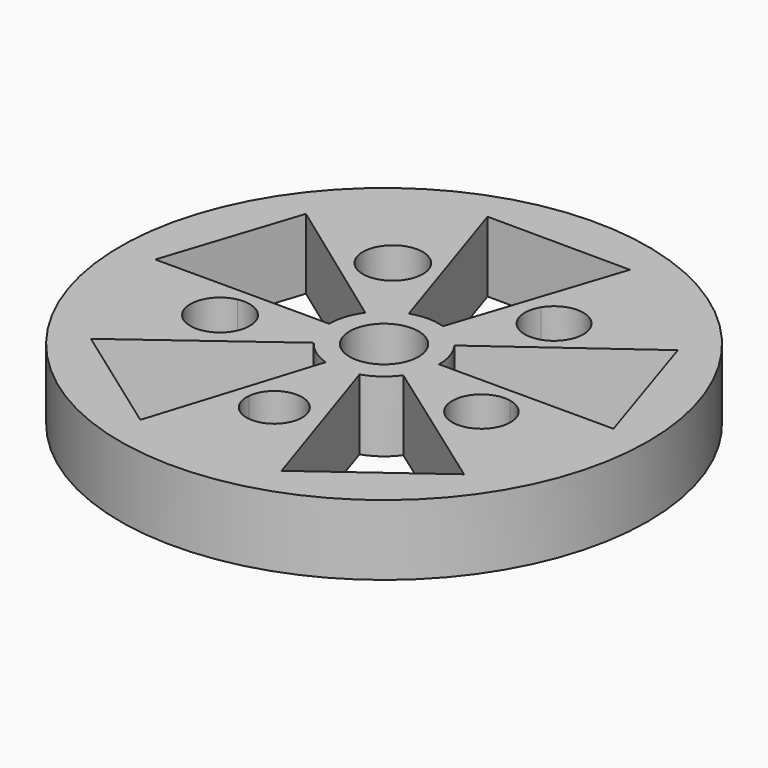
from build123d import *

# Parameters (mm, degrees)
F0_R      = 12.0113110687
F1_DEPTH  = 3.2
F2_R      = 1.5698041018
F3_DEPTH  = 25
F8_DEPTH  = 25
F11_DEPTH = 25


with BuildPart() as f1:
    # F0 (on Top) → F1 (new body)
    with BuildSketch(Plane.XY):
        Circle(F0_R)
    extrude(amount=F1_DEPTH)

    # F2 (on face) → F3 (cut)
    with BuildSketch(Plane.XY.offset(3.2)):
        Circle(F2_R)
    extrude(amount=-F3_DEPTH, mode=Mode.SUBTRACT)

    # F6 (on face) → F8 (cut)
    with BuildSketch(Plane.XY.offset(3.2)):
        with BuildLine():
            ThreePointArc((-0.7770120639, 2.3781697719), (0.0011061793, 2.5018868855), (0.7791147181, 2.3774817491))
            Line((0.7791147181, 2.3774817491), (3.2505495474, 9.9191069603))
            Line((3.2505495474, 9.9191069603), (-3.25061474, 9.9490266293))
            Line((-3.25061474, 9.9490266293), (-0.7770120639, 2.3781697719))
        make_face()
        with BuildLine():
            ThreePointArc((2.0223107656, 1.4729896057), (2.3789737797, 0.774546943), (2.50188713, 0))
            Line((2.50188713, 0), (10.4379784316, 0))
            Line((10.4379784316, 0), (8.4454240277, 6.1513897963))
            Line((8.4454240277, 6.1513897963), (2.0223107656, 1.4729896057))
        make_face()
        with BuildLine():
            ThreePointArc((2.0364204787, -1.4534203952), (1.4823509758, -2.0154589542), (0.7807718841, -2.3769380464))
            Line((0.7807718841, -2.3769380464), (3.2505495474, -9.8957903683))
            Line((3.2505495474, -9.8957903683), (8.4810052067, -6.0530062765))
            Line((8.4810052067, -6.0530062765), (2.0364204787, -1.4534203952))
        make_face()
        with BuildLine():
            Line((-3.1185087282, -9.9669527262), (-0.7470875355, -2.3877393965))
            ThreePointArc((-0.7470875355, -2.3877393965), (-1.4513145315, -2.0379218194), (-2.0121805403, -1.4867981317))
            Line((-2.0121805403, -1.4867981317), (-8.3845453337, -6.1953319237))
            Line((-8.3845453337, -6.1953319237), (-3.1185087282, -9.9669527262))
        make_face()
        with BuildLine():
            Line((-10.4126818478, 0), (-2.50188713, 0))
            ThreePointArc((-2.50188713, 0), (-2.3804302696, 0.7700590516), (-2.0278522018, 1.4653513773))
            Line((-2.0278522018, 1.4653513773), (-8.4268115461, 6.089319475))
            Line((-8.4268115461, 6.089319475), (-10.4126818478, 0))
        make_face()
    extrude(amount=-F8_DEPTH, mode=Mode.SUBTRACT)

    # F10 (on face) → F11 (cut)
    with BuildSketch(Plane(origin=(0, 0, 0), x_dir=(1, 0, 0), z_dir=(0, 0, -1))):
        with BuildLine():
            ThreePointArc((-6.2165933365, 0.5757423441), (-5.9476825457, 1.8980474954), (-5.4009304255, 3.1316868454))
            ThreePointArc((-5.4009304255, 3.1316868454), (-7.2331832359, 2.3082814558), (-6.2165933365, 0.5757423441))
        make_face()
        with BuildLine():
            ThreePointArc((-4.5983108671, 1.8980474954), (-4.8166264567, 2.6339252369), (-5.4009304255, 3.1316868454))
            ThreePointArc((-5.4009304255, 3.1316868454), (-5.9476825457, 1.8980474954), (-6.2165933365, 0.5757423441))
            ThreePointArc((-6.2165933365, 0.5757423441), (-5.0938841732, 0.8531397167), (-4.5983108671, 1.8980474954))
        make_face()
        with BuildLine():
            ThreePointArc((-1.2560993846, 6.1155315627), (0, 6.2431972545), (1.2560993846, 6.1155315627))
            ThreePointArc((1.2560993846, 6.1155315627), (1.2609516612, 6.17928246), (1.2625704704, 6.2431972545))
            ThreePointArc((1.2625704704, 6.2431972545), (-0.0639147945, 7.5041489157), (-1.2560993846, 6.1155315627))
        make_face()
        with BuildLine():
            ThreePointArc((-1.2560993846, 6.1155315627), (0, 4.9806267841), (1.2560993846, 6.1155315627))
            ThreePointArc((1.2560993846, 6.1155315627), (0, 6.2431972545), (-1.2560993846, 6.1155315627))
        make_face()
        with BuildLine():
            ThreePointArc((5.4126141971, 3.1114497445), (4.6846825015, 1.4954228894), (6.2142952239, 0.6000390224))
            ThreePointArc((6.2142952239, 0.6000390224), (5.9475248318, 1.8985416334), (5.4126141971, 3.1114497445))
        make_face()
        with BuildLine():
            ThreePointArc((5.4126141971, 3.1114497445), (5.9475248318, 1.8985416334), (6.2142952239, 0.6000390224))
            ThreePointArc((6.2142952239, 0.6000390224), (6.9748788004, 1.0607950749), (7.2731475055, 1.8985416334))
            ThreePointArc((7.2731475055, 1.8985416334), (6.6714674425, 3.0090291703), (5.4126141971, 3.1114497445))
        make_face()
        with BuildLine():
            ThreePointArc((5.0638266611, -5.0062423526), (4.971794998, -4.5194305693), (4.7084027941, -4.0998115917))
            ThreePointArc((4.7084027941, -4.0998115917), (3.730288121, -5.0062423526), (2.5819813441, -5.6842663816))
            ThreePointArc((2.5819813441, -5.6842663816), (4.0817235312, -6.2926397214), (5.0638266611, -5.0062423526))
        make_face()
        with BuildLine():
            ThreePointArc((2.5819813441, -5.6842663816), (3.730288121, -5.0062423526), (4.7084027941, -4.0998115917))
            ThreePointArc((4.7084027941, -4.0998115917), (2.9335035935, -3.9369157166), (2.5819813441, -5.6842663816))
        make_face()
        with BuildLine():
            ThreePointArc((-4.6663905471, -4.1475669037), (-3.6536564941, -5.0624407337), (-2.4663245936, -5.7353949261))
            ThreePointArc((-2.4663245936, -5.7353949261), (-2.3339839606, -5.4104188814), (-2.2888765166, -5.0624407337))
            ThreePointArc((-2.2888765166, -5.0624407337), (-3.1635211919, -3.7887092971), (-4.6663905471, -4.1475669037))
        make_face()
        with BuildLine():
            ThreePointArc((-4.6663905471, -4.1475669037), (-4.4523557862, -6.1691041097), (-2.4663245936, -5.7353949261))
            ThreePointArc((-2.4663245936, -5.7353949261), (-3.6536564941, -5.0624407337), (-4.6663905471, -4.1475669037))
        make_face()
    extrude(amount=-F11_DEPTH, mode=Mode.SUBTRACT)


solid = f1.part
